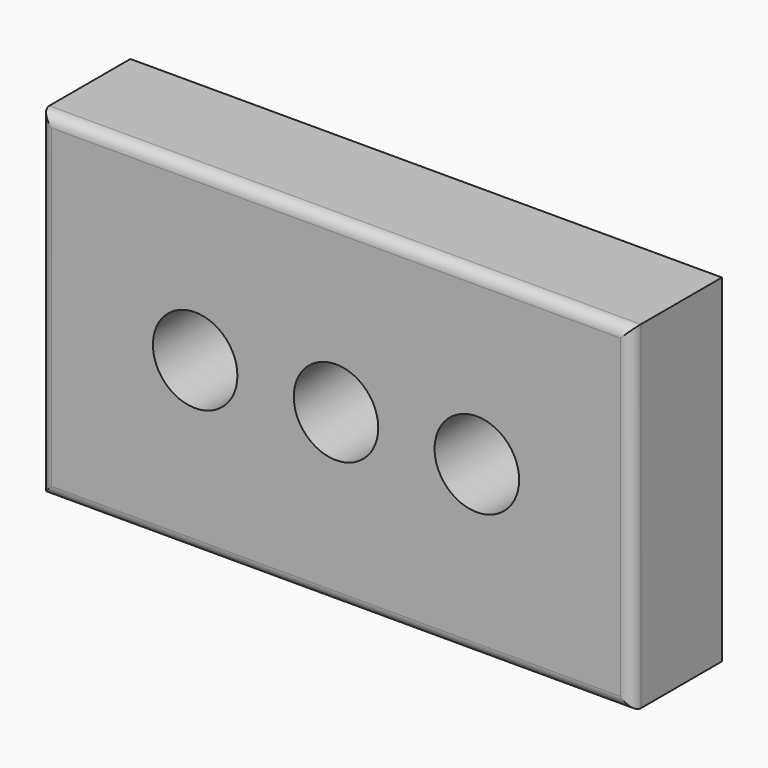
from build123d import *

# Parameters (mm, degrees)
F0_W     = 266.7
F0_H     = 152.4
F1_DEPTH = 50.8
F2_R     = 19.05
F3_DEPTH = 76.2
F4_R     = 19.05
F5_DEPTH = 50.8
F6_R     = 19.05
F7_DEPTH = 50.8
F8_R     = 5.08


with BuildPart() as f1:
    # F0 (on Front) → F1 (new body)
    with BuildSketch(Plane.XZ):
        Rectangle(F0_W, F0_H)
    extrude(amount=F1_DEPTH)

    # F2 (on face) → F3 (cut)
    with BuildSketch(Plane.XZ.offset(50.8)):
        Circle(F2_R)
    extrude(amount=-F3_DEPTH, mode=Mode.SUBTRACT)

    # F4 (on Front) → F5 (cut)
    with BuildSketch(Plane.XZ):
        with Locations((-63.5, 0)):
            Circle(F4_R)
    extrude(amount=F5_DEPTH, mode=Mode.SUBTRACT)

    # F6 (on Front) → F7 (cut)
    with BuildSketch(Plane.XZ):
        with Locations((63.5, 0)):
            Circle(F6_R)
    extrude(amount=F7_DEPTH, mode=Mode.SUBTRACT)

    # F8
    f8_edges = [f1.edges().sort_by_distance(p)[0] for p in [
        (0, -50.8, 76.2),
        (-133.35, -50.8, 0),
        (0, -50.8, -76.2),
        (133.35, -50.8, 0),
    ]]
    fillet(f8_edges, radius=F8_R)


solid = f1.part
